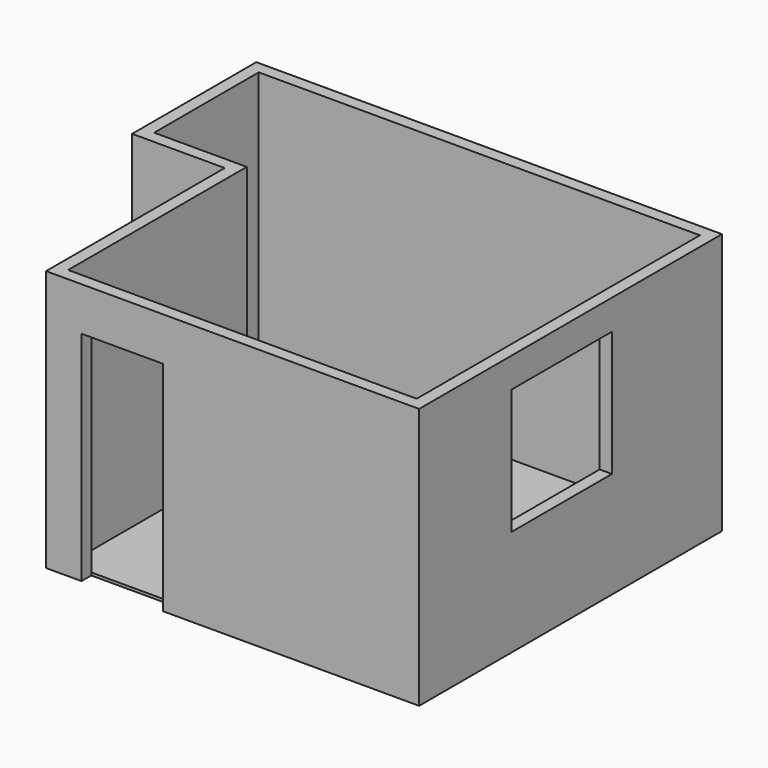
from build123d import *

# Parameters (mm, degrees)
F0_W     = 863.6
F0_H     = 1219.2
F1_DEPTH = 25.4
F3_DEPTH = 2438.4
F4_W     = 762
F4_H     = 2032
F5_DEPTH = 114.3
F6_W     = 1168.4
F6_H     = 1168.4
F7_DEPTH = 114.3


with BuildPart() as f1:
    # F0 (on Top) → F1 (new body)
    with BuildSketch(Plane.XY):
        Polygon((-1625.6, 431.8), (-1625.6, -1651), (1625.6, -1651), (1625.6, 1651), (-1625.6, 1651), align=None)
        with Locations((-2057.4, 1041.4)):
            Rectangle(F0_W, F0_H)
    extrude(amount=F1_DEPTH)


with BuildPart() as f3:
    # F2 (on Top) → F3 (new body)
    with BuildSketch(Plane.XY):
        Polygon((1739.9, 1765.3), (-2603.5, 1765.3), (-2603.5, 317.5), (-1739.9, 317.5), (-1739.9, -1765.3), (1739.9, -1765.3), align=None)
        Polygon((-2489.2, 431.8), (-2489.2, 1651), (1625.6, 1651), (1625.6, -1651), (-1625.6, -1651), (-1625.6, 431.8), align=None, mode=Mode.SUBTRACT)
    extrude(amount=F3_DEPTH)

    # F4 (on face) → F5 (cut, through all)
    with BuildSketch(Plane.XZ.offset(1765.3)):
        with Locations((-1028.7, 1016)):
            Rectangle(F4_W, F4_H)
    extrude(amount=-F5_DEPTH, mode=Mode.SUBTRACT)

    # F6 (on face) → F7 (cut, through all)
    with BuildSketch(Plane.YZ.offset(1739.9)):
        with Locations((-101.6, 1574.8)):
            Rectangle(F6_W, F6_H)
    extrude(amount=-F7_DEPTH, mode=Mode.SUBTRACT)


solid = Compound([f1.part, f3.part])
